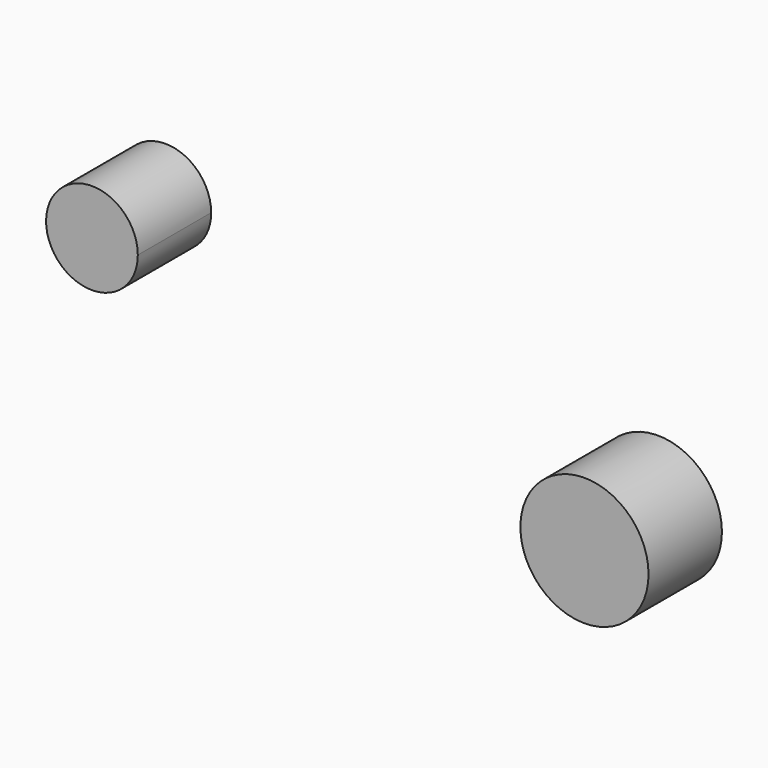
from build123d import *

# Parameters (mm, degrees)
F0_R     = 28.273901
F1_DEPTH = 40.48078


with BuildPart() as f1:
    # F0 (on Front) → F1 (new body)
    with BuildSketch(Plane.XZ):
        with BuildLine():
            ThreePointArc((-106.47849, 50.71925), (-145.39389, 58.534968), (-112.513842, 36.299945))
            ThreePointArc((-112.513842, 36.299945), (-108.048189, 42.903532), (-106.47849, 50.71925))
        make_face()
        with Locations((90.647176, 0)):
            Circle(F0_R)
    extrude(amount=F1_DEPTH)


solid = f1.part
